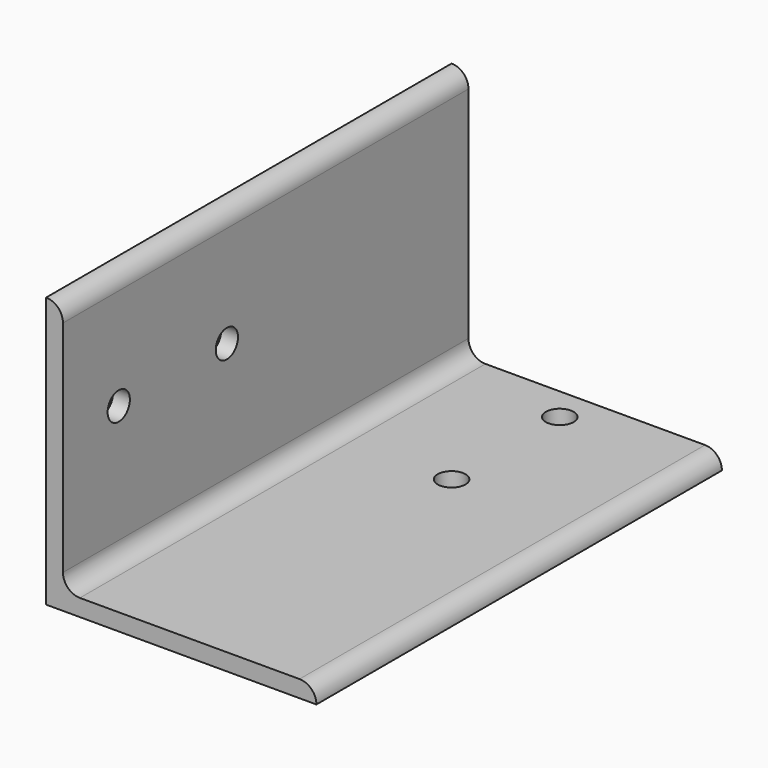
from build123d import *

# Parameters (mm, degrees)
F1_DEPTH = 95.25
F2_R     = 2.6162
F3_DEPTH = 3.176
F4_R     = 2.6162
F5_DEPTH = 50.801


with BuildPart() as f1:
    # F0 (on Front) → F1 (new body)
    with BuildSketch(Plane.XZ):
        with BuildLine():
            Line((-50.8, 0), (0, 0))
            ThreePointArc((0, 0), (-0.929936, 2.245064), (-3.175, 3.175))
            Line((-3.175, 3.175), (-44.45, 3.175))
            ThreePointArc((-44.45, 3.175), (-46.695064, 4.104936), (-47.625, 6.35))
            Line((-47.625, 6.35), (-47.625, 47.625))
            ThreePointArc((-47.625, 47.625), (-48.554936, 49.870064), (-50.8, 50.8))
            Line((-50.8, 50.8), (-50.8, 0))
        make_face()
    extrude(amount=F1_DEPTH)

    # F2 (on face) → F3 (cut, through all)
    with BuildSketch(Plane.XY.offset(3.175)):
        with Locations((-25.4, -6.35)):
            Circle(F2_R)
        with Locations((-25.4, -31.75)):
            Circle(F2_R)
    extrude(amount=-F3_DEPTH, mode=Mode.SUBTRACT)

    # F4 (on face) → F5 (cut, through all)
    with BuildSketch(Plane(origin=(-50.8, 0, 0), x_dir=(0, -1, 0), z_dir=(-1, 0, 0))):
        with Locations((56.75, 28.575)):
            Circle(F4_R)
        with Locations((82.15, 28.575)):
            Circle(F4_R)
    extrude(amount=-F5_DEPTH, mode=Mode.SUBTRACT)


solid = f1.part
